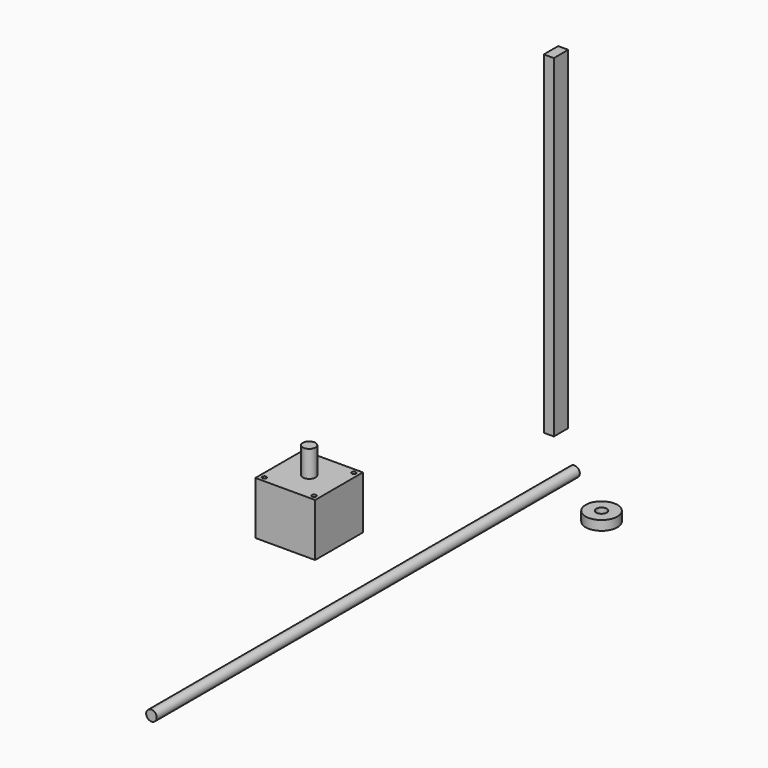
from build123d import *

# Parameters (mm, degrees)
F0_R     = 6
F1_DEPTH = 25
F0_W     = 56.5
F0_H     = 56.5
F0_R_2   = 2
F2_DEPTH = 50
F3_R     = 15
F3_R_2   = 5
F4_DEPTH = 9
F5_R     = 5
F6_DEPTH = 500
F7_W     = 9.5
F7_H     = 17
F8_DEPTH = 315


with BuildPart() as f1:
    # F0 (on Top) → F1 (new body)
    with BuildSketch(Plane.XY):
        with Locations((-113.157216, -48.283662)):
            Circle(F0_R)
    extrude(amount=F1_DEPTH)


with BuildPart() as f2:
    # F0 (on Top) → F2 (new body)
    with BuildSketch(Plane.XY):
        with Locations((-113.157216, -48.283662)):
            Rectangle(F0_W, F0_H)
        with Locations((-136.657216, -71.783662)):
            Circle(F0_R_2, mode=Mode.SUBTRACT)
        with Locations((-89.657216, -71.783662)):
            Circle(F0_R_2, mode=Mode.SUBTRACT)
        with Locations((-113.157216, -48.283662)):
            Circle(F0_R, mode=Mode.SUBTRACT)
        with Locations((-136.657216, -24.783662)):
            Circle(F0_R_2, mode=Mode.SUBTRACT)
        with Locations((-89.657216, -24.783662)):
            Circle(F0_R_2, mode=Mode.SUBTRACT)
    extrude(amount=-F2_DEPTH)


with BuildPart() as f4:
    # F3 (on Top) → F4 (new body)
    with BuildSketch(Plane.XY):
        with Locations((101.691082, 28.743761)):
            Circle(F3_R)
        with Locations((101.691082, 28.743761)):
            Circle(F3_R_2, mode=Mode.SUBTRACT)
    extrude(amount=F4_DEPTH)


with BuildPart() as f6:
    # F5 (on Front) → F6 (new body)
    with BuildSketch(Plane.XZ):
        with Locations((99.121988, 52.518774)):
            Circle(F5_R)
    extrude(amount=F6_DEPTH)


with BuildPart() as f8:
    # F7 (on Top) → F8 (new body)
    with BuildSketch(Plane.XY):
        with Locations((-15.431996, 121.342674)):
            Rectangle(F7_W, F7_H)
    extrude(amount=F8_DEPTH)


solid = Compound([f1.part, f2.part, f4.part, f6.part, f8.part])
